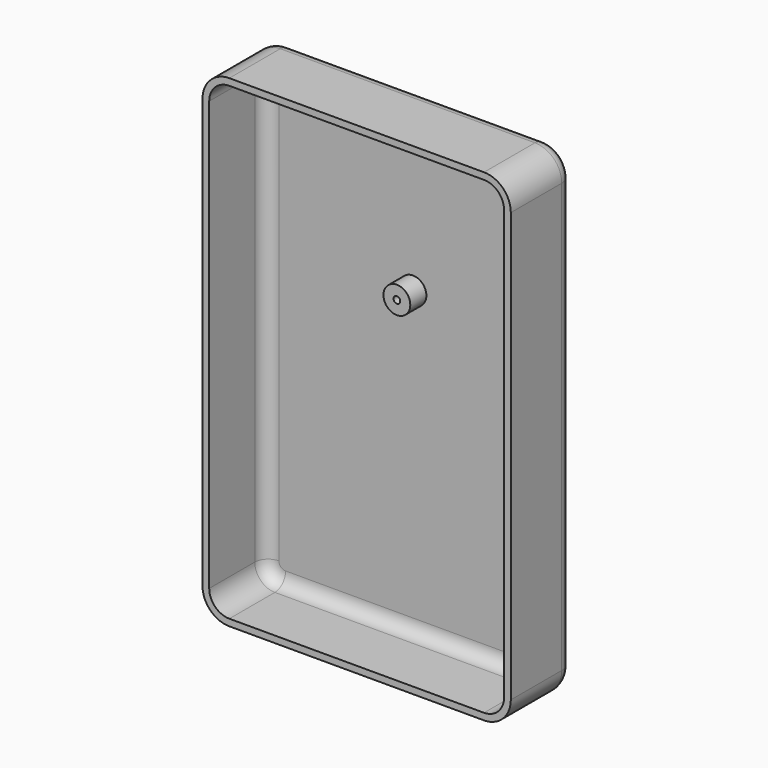
from build123d import *

# Parameters (mm, degrees)
F1_DEPTH = 11.5
F2_T     = -1
F3_R     = 2
F3_R_2   = 0.5
F4_DEPTH = 4
F5_R     = 2


with BuildPart() as f1:
    # F0 (on Front) → F1 (new body)
    with BuildSketch(Plane.XZ):
        with BuildLine():
            Line((19, 36), (-19, 36))
            ThreePointArc((-19, 36), (-21.8284271247, 34.8284271247), (-23, 32))
            Line((-23, 32), (-23, -32))
            ThreePointArc((-23, -32), (-21.8284271247, -34.8284271247), (-19, -36))
            Line((-19, -36), (19, -36))
            ThreePointArc((19, -36), (21.8284271247, -34.8284271247), (23, -32))
            Line((23, -32), (23, 32))
            ThreePointArc((23, 32), (21.8284271247, 34.8284271247), (19, 36))
        make_face()
    extrude(amount=F1_DEPTH)

    # F2
    f2_openings = [f1.faces().sort_by_distance(p)[0] for p in [
        (0, -11.5, 0),
    ]]
    offset(amount=F2_T, openings=f2_openings)

    # F3 (on Front) → F4 (join)
    with BuildSketch(Plane.XZ):
        with Locations((0, 10)):
            Circle(F3_R)
        with Locations((0, 10)):
            Circle(F3_R_2, mode=Mode.SUBTRACT)
    extrude(amount=F4_DEPTH)

    # F5
    f5_edges = [f1.edges().sort_by_distance(p)[0] for p in [
        (23, 0, 0),
        (-22, -1, 0),
    ]]
    fillet(f5_edges, radius=F5_R)


solid = f1.part
